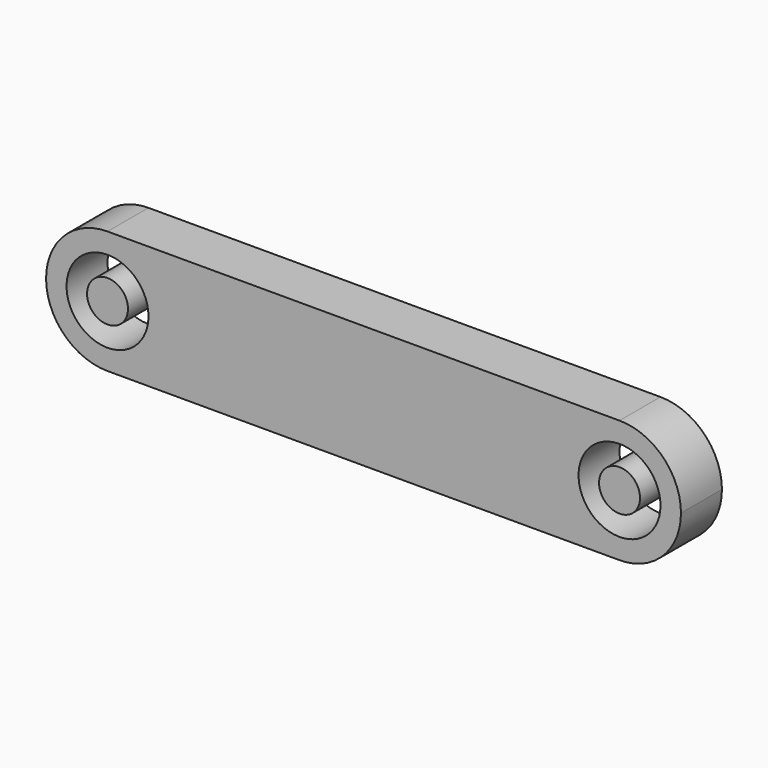
from build123d import *

# Parameters (mm, degrees)
F0_R     = 4
F1_DEPTH = 5
F0_R_2   = 2


with BuildPart() as f1:
    # F0 (on Front) → F1 (new body)
    with BuildSketch(Plane.XZ):
        with BuildLine():
            ThreePointArc((-25, 6), (-20.7573593129, 4.2426406871), (-19, 0))
            ThreePointArc((-19, 0), (-20.7573593129, -4.2426406871), (-25, -6))
            Line((-25, -6), (0, -6))
            Line((0, -6), (25, -6))
            ThreePointArc((25, -6), (19, 0), (25, 6))
            Line((25, 6), (0, 6))
            Line((0, 6), (-25, 6))
        make_face()
        with BuildLine():
            ThreePointArc((-25, -6), (-20.7573593129, -4.2426406871), (-19, 0))
            ThreePointArc((-19, 0), (-20.7573593129, 4.2426406871), (-25, 6))
            ThreePointArc((-25, 6), (-31, 0), (-25, -6))
        make_face()
        with Locations((-25, 0)):
            Circle(F0_R, mode=Mode.SUBTRACT)
        with BuildLine():
            ThreePointArc((31, 0), (29.2426406871, 4.2426406871), (25, 6))
            ThreePointArc((25, 6), (19, 0), (25, -6))
            ThreePointArc((25, -6), (29.2426406871, -4.2426406871), (31, 0))
        make_face()
        with Locations((25, 0)):
            Circle(F0_R, mode=Mode.SUBTRACT)
    extrude(amount=F1_DEPTH)


with BuildPart() as f1b:
    # F0 (on Front) → F1, piece 2 (new body)
    with BuildSketch(Plane.XZ):
        with Locations((-25, 0)):
            Circle(F0_R_2)
    extrude(amount=F1_DEPTH)


with BuildPart() as f1c:
    # F0 (on Front) → F1, piece 3 (new body)
    with BuildSketch(Plane.XZ):
        with Locations((25, 0)):
            Circle(F0_R_2)
    extrude(amount=F1_DEPTH)


solid = Compound([f1.part, f1b.part, f1c.part])
